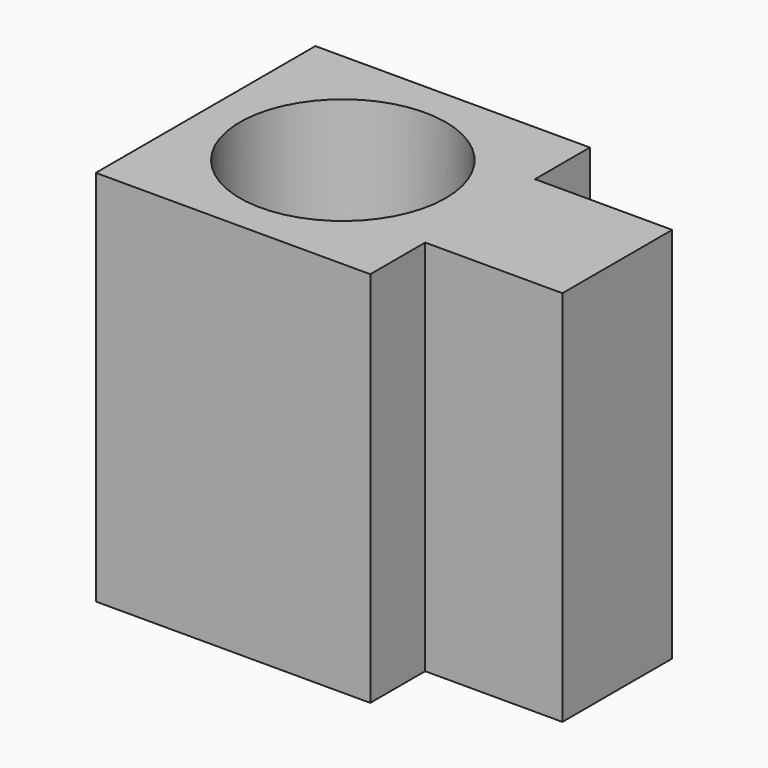
from build123d import *

# Parameters (mm, degrees)
F0_R     = 19.05
F1_DEPTH = 69.85


with BuildPart() as f1:
    # F0 (on Top) → F1 (new body)
    with BuildSketch(Plane.XY):
        Polygon((-76.2, 0), (-25.4, 0), (-25.4, 12.7), (0, 12.7), (0, 38.1), (-25.4, 38.1), (-25.4, 50.8), (-76.2, 50.8), align=None)
        with Locations((-50.8, 25.4)):
            Circle(F0_R, mode=Mode.SUBTRACT)
    extrude(amount=F1_DEPTH)


solid = f1.part
